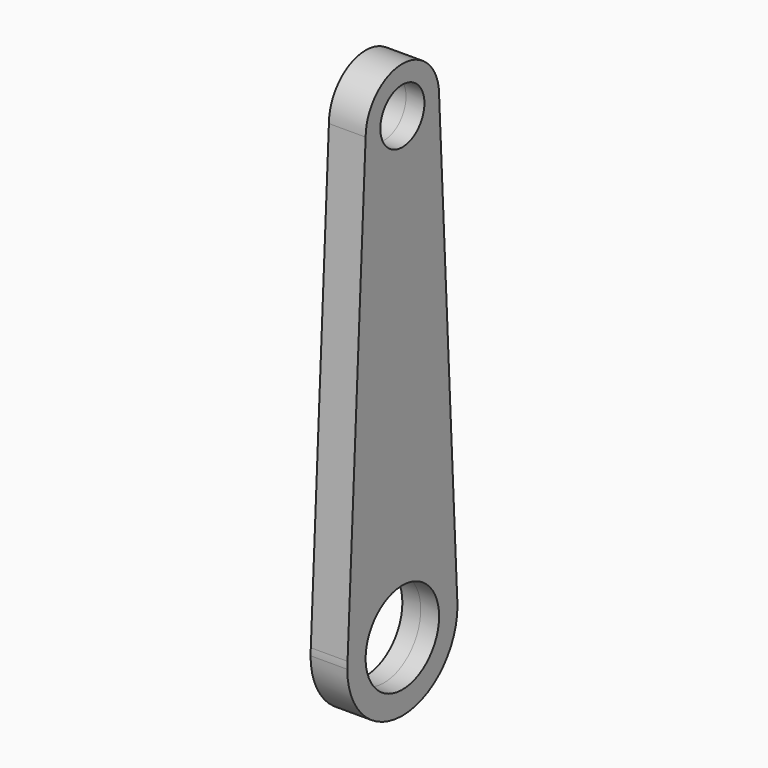
from build123d import *

# Parameters (mm, degrees)
F0_R          = 7.62
F0_R_2        = 12.7
F1_DEPTH      = 5.08
F1_DEPTH_BACK = 5.08


with BuildPart() as f1:
    # F0 (on Right) → F1 (new body, two sides)
    with BuildSketch(Plane.YZ) as f1_sk:
        with BuildLine():
            ThreePointArc((-12.7, 80.25819), (0, 67.55819), (12.7, 80.25819))
            ThreePointArc((12.7, 80.25819), (0, 92.95819), (-12.7, 80.25819))
        make_face()
        with Locations((0, 80.25819)):
            Circle(F0_R, mode=Mode.SUBTRACT)
        with BuildLine():
            Line((18.954988, -44.84156), (12.7, 80.25819))
            ThreePointArc((12.7, 80.25819), (0, 67.55819), (-12.7, 80.25819))
            Line((-12.7, 80.25819), (-18.954988, -44.84156))
            ThreePointArc((-18.954988, -44.84156), (0, -27.69181), (18.954988, -44.84156))
        make_face()
        with BuildLine():
            Line((19.05, -46.74181), (18.954988, -44.84156))
            ThreePointArc((18.954988, -44.84156), (0, -27.69181), (-18.954988, -44.84156))
            Line((-18.954988, -44.84156), (-19.05, -46.74181))
            ThreePointArc((-19.05, -46.74181), (0, -65.79181), (19.05, -46.74181))
        make_face()
        with Locations((0, -46.74181)):
            Circle(F0_R_2, mode=Mode.SUBTRACT)
        with BuildLine():
            ThreePointArc((19.05, -46.74181), (19.026232, -45.790498), (18.954988, -44.84156))
            Line((18.954988, -44.84156), (19.05, -46.74181))
        make_face()
        with BuildLine():
            Line((-19.05, -46.74181), (-18.954988, -44.84156))
            ThreePointArc((-18.954988, -44.84156), (-19.026232, -45.790498), (-19.05, -46.74181))
        make_face()
    extrude(amount=F1_DEPTH)
    extrude(f1_sk.sketch, amount=-F1_DEPTH_BACK)


solid = f1.part
